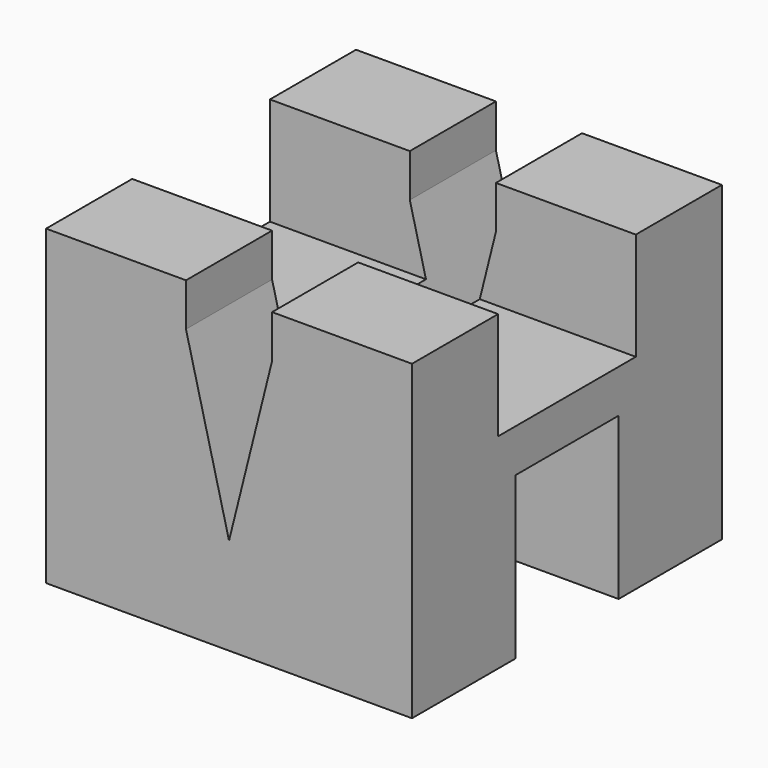
from build123d import *

# Parameters (mm, degrees)
F0_W      = 17
F0_H      = 11
F1_DEPTH  = 18
F3_DEPTH  = 25
F4_W      = 8
F4_H      = 5
F5_DEPTH  = 25
F7_DEPTH  = 25
F8_W      = 6
F8_H      = 3.5
F9_DEPTH  = 17
F10_W     = 6
F10_H     = 3.5
F11_DEPTH = 17


with BuildPart() as f1:
    # F0 (on Front) → F1 (new body)
    with BuildSketch(Plane.XZ):
        with Locations((8.5, 5.5)):
            Rectangle(F0_W, F0_H)
    extrude(amount=F1_DEPTH)

    # F2 (on face) → F3 (cut)
    with BuildSketch(Plane.XZ.offset(18)):
        Polygon((10.5, 9), (10.5, 11), (6.5, 11), (6.5, 9), (8.5, 1), align=None)
    extrude(amount=-F3_DEPTH, mode=Mode.SUBTRACT)

    # F4 (on face) → F5 (cut)
    with BuildSketch(Plane.YZ.offset(17)):
        with Locations((-9, 8.5)):
            Rectangle(F4_W, F4_H)
    extrude(amount=-F5_DEPTH, mode=Mode.SUBTRACT)

    # F6 (on face) → F7 (cut)
    with BuildSketch(Plane.YZ.offset(17)):
        Polygon((-6, 4), (-9, 4), (-12, 4), (-12, 0), (-6, 0), align=None)
    extrude(amount=-F7_DEPTH, mode=Mode.SUBTRACT)

    # F8 (on face) → F9 (join)
    with BuildSketch(Plane.YZ.offset(17)):
        with Locations((-3, -1.75)):
            Rectangle(F8_W, F8_H)
    extrude(amount=-F9_DEPTH)

    # F10 (on face) → F11 (join)
    with BuildSketch(Plane.YZ.offset(17)):
        with Locations((-15, -1.75)):
            Rectangle(F10_W, F10_H)
    extrude(amount=-F11_DEPTH)


solid = f1.part
